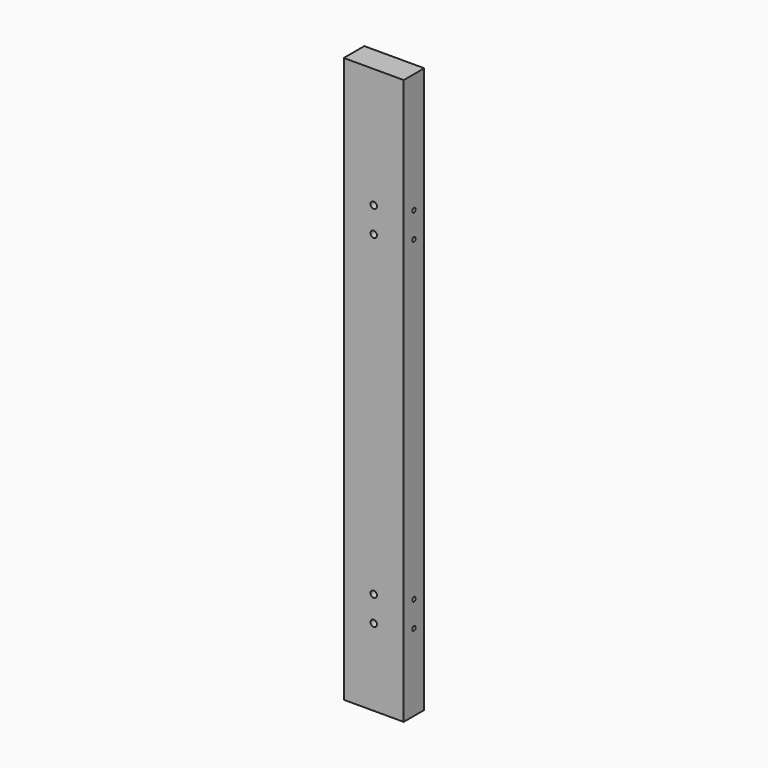
from build123d import *

# Parameters (mm, degrees)
F0_W     = 88.9
F0_H     = 38.1
F1_DEPTH = 419.1
F2_R     = 4.7625
F3_DEPTH = 38.101
F4_R     = 3.175
F5_DEPTH = 88.901


with BuildPart() as f1:
    # F0 (on Top) → F1 (new body, symmetric)
    with BuildSketch(Plane.XY):
        Rectangle(F0_W, F0_H)
    extrude(amount=F1_DEPTH, both=True)

    # F2 (on face) → F3 (cut, through all)
    with BuildSketch(Plane.XZ.offset(19.05)):
        with Locations((0, 241.3)):
            Circle(F2_R)
        with Locations((0, 203.2)):
            Circle(F2_R)
        with Locations((0, -266.7)):
            Circle(F2_R)
        with Locations((0, -304.8)):
            Circle(F2_R)
    extrude(amount=-F3_DEPTH, mode=Mode.SUBTRACT)

    # F4 (on face) → F5 (cut, through all)
    with BuildSketch(Plane.YZ.offset(44.45)):
        with Locations((0, 241.3)):
            Circle(F4_R)
        with Locations((0, 203.2)):
            Circle(F4_R)
        with Locations((0, -304.8)):
            Circle(F4_R)
        with Locations((0, -266.7)):
            Circle(F4_R)
    extrude(amount=-F5_DEPTH, mode=Mode.SUBTRACT)


solid = f1.part
